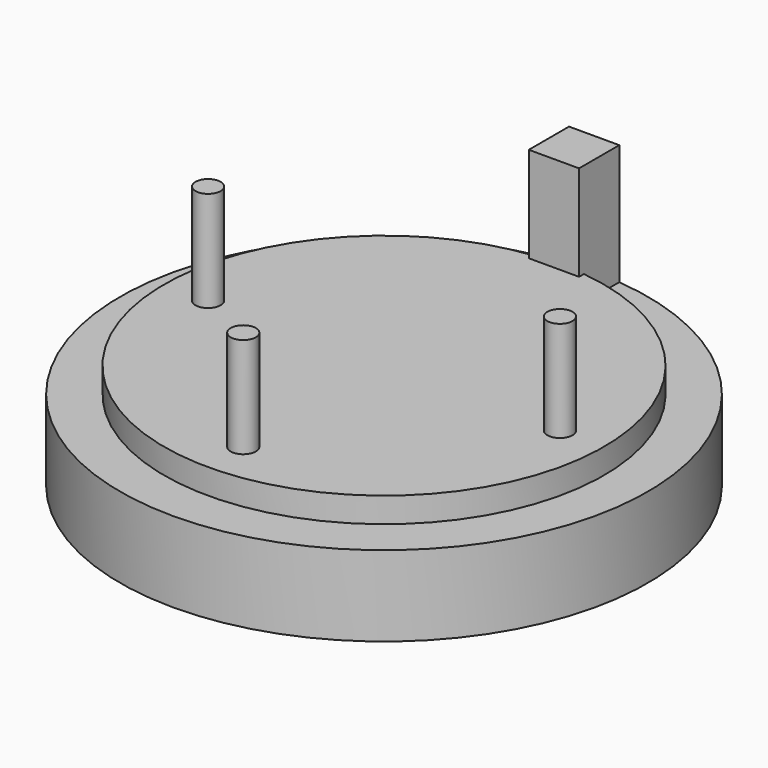
from build123d import *

# Parameters (mm, degrees)
F1_DEPTH = 20.32
F3_DEPTH = 6.35
F5_DEPTH = 50.8
F6_R     = 3.175
F7_DEPTH = 25.4


with BuildPart() as f1:
    # F0 (on Top) → F1 (new body)
    with BuildSketch(Plane.XY):
        with BuildLine():
            Line((-6.35, 53.67193), (-6.35, 66.37193))
            ThreePointArc((-6.35, 66.37193), (0, -66.675), (6.35, 66.37193))
            Line((6.35, 66.37193), (6.35, 53.67193))
            Line((6.35, 53.67193), (-6.35, 53.67193))
        make_face()
    extrude(amount=F1_DEPTH)

    # F2 (on face) → F3 (join)
    with BuildSketch(Plane.XY.offset(20.32)):
        with BuildLine():
            Line((-6.35, 53.67193), (-6.35, 55.19845))
            ThreePointArc((-6.35, 55.19845), (0, -55.5625), (6.35, 55.19845))
            Line((6.35, 55.19845), (6.35, 53.67193))
            Line((6.35, 53.67193), (-6.35, 53.67193))
        make_face()
    extrude(amount=F3_DEPTH)

    # F4 (on Top) → F5 (join)
    with BuildSketch(Plane.XY):
        Polygon((-6.35, 55.19845), (-6.35, 53.67193), (6.35, 53.67193), (6.35, 66.37193), (-6.35, 66.37193), align=None)
    extrude(amount=F5_DEPTH)

    # F6 (on face) → F7 (join)
    with BuildSketch(Plane.XY.offset(26.67)):
        with Locations((44.45, 0)):
            Circle(F6_R)
        with Locations((0, -44.45)):
            Circle(F6_R)
        with Locations((-44.45, 0)):
            Circle(F6_R)
    extrude(amount=F7_DEPTH)


solid = f1.part
